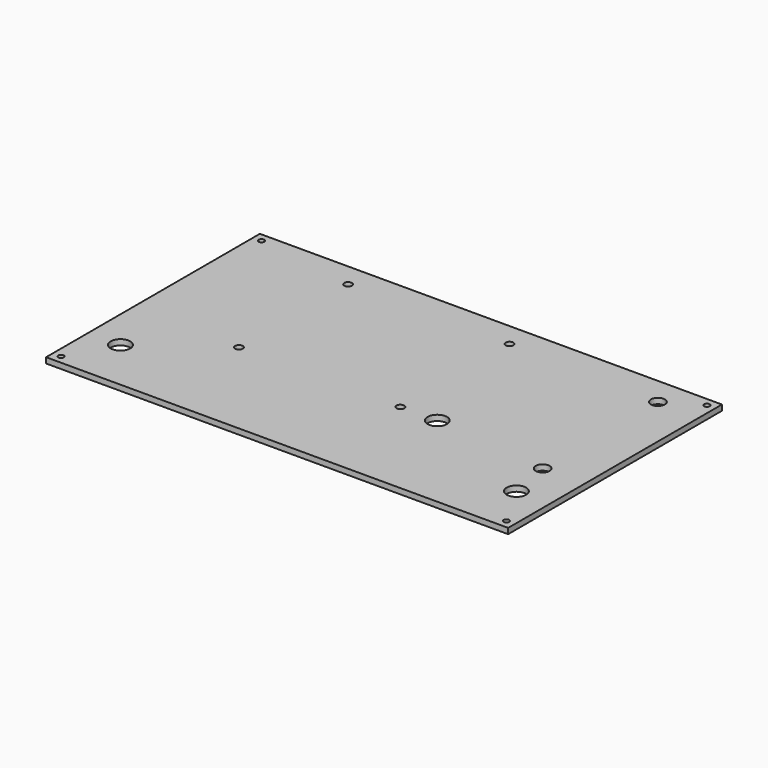
from build123d import *

# Parameters (mm, degrees)
F0_W     = 166
F0_H     = 96
F0_R     = 1
F1_DEPTH = 2
F3_D     = 5
F3_DEPTH = 12
F3_TIP   = 1.5021515476
F4_D     = 2.75
F4_DEPTH = 12
F4_TIP   = 0.8261833512
F5_D     = 7
F5_DEPTH = 12
F5_TIP   = 2.1030121666


with BuildPart() as f1:
    # F0 (on Top) → F1 (new body)
    with BuildSketch(Plane.XY):
        with Locations((15.2820143104, 21.6586496021)):
            Rectangle(F0_W, F0_H)
        with Locations((-64.7179856896, -23.3413503979)):
            Circle(F0_R, mode=Mode.SUBTRACT)
        with Locations((95.2820143104, -23.3413503979)):
            Circle(F0_R, mode=Mode.SUBTRACT)
        with Locations((-64.7179856896, 66.6586496021)):
            Circle(F0_R, mode=Mode.SUBTRACT)
        with Locations((95.2820143104, 66.6586496021)):
            Circle(F0_R, mode=Mode.SUBTRACT)
    extrude(amount=F1_DEPTH)

    # F3
    with Locations(Plane(origin=(0, 0, 0), x_dir=(1, 0, 0), z_dir=(0, 0, -1))):
        with Locations((83.2820143104, -59.6586496021), (83.2820143104, -7.9086496021)):
            Hole(F3_D / 2, depth=F3_DEPTH)
            with Locations((0, 0, -(F3_DEPTH + F3_TIP / 2))):  # 118° drill point
                Cone(0, F3_D / 2, F3_TIP, mode=Mode.SUBTRACT)

    # F4
    with Locations(Plane(origin=(0, 0, 0), x_dir=(1, 0, 0), z_dir=(0, 0, -1))):
        with Locations((-29.2179856896, -61.1586496021), (-29.2179856896, -12.1586496021), (28.7820143104, -12.1586496021), (28.7820143104, -61.1586496021)):
            Hole(F4_D / 2, depth=F4_DEPTH)
            with Locations((0, 0, -(F4_DEPTH + F4_TIP / 2))):  # 118° drill point
                Cone(0, F4_D / 2, F4_TIP, mode=Mode.SUBTRACT)

    # F5
    with Locations(Plane(origin=(0, 0, 0), x_dir=(1, 0, 0), z_dir=(0, 0, -1))):
        with Locations((-56.0955218971, 7.4801053852), (86.1625224352, 7.4801053852), (42.0048907399, -12.1859554201)):
            Hole(F5_D / 2, depth=F5_DEPTH)
            with Locations((0, 0, -(F5_DEPTH + F5_TIP / 2))):  # 118° drill point
                Cone(0, F5_D / 2, F5_TIP, mode=Mode.SUBTRACT)


solid = f1.part
